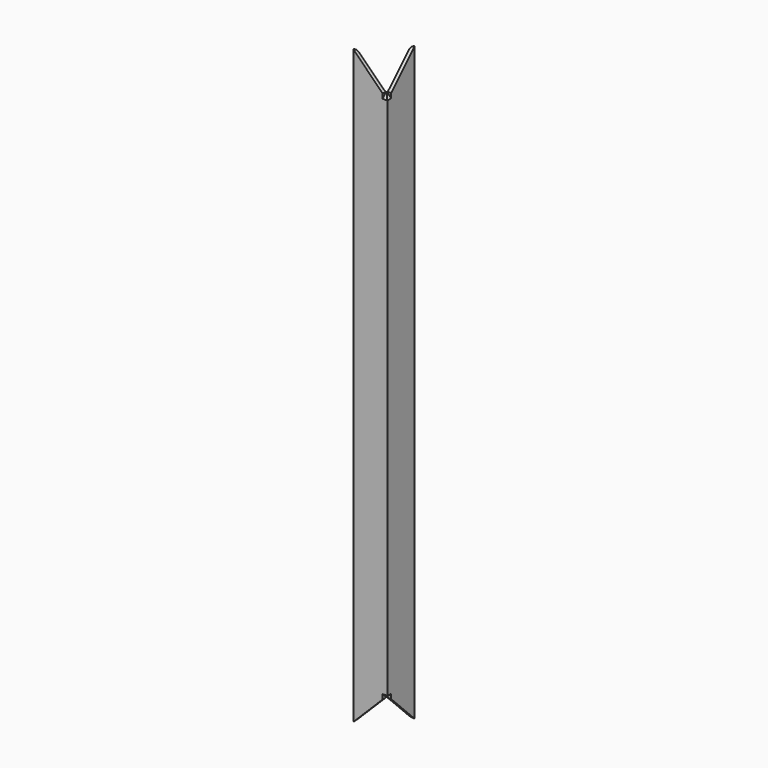
from build123d import *

# Parameters (mm, degrees)
F1_DEPTH = 870
F6_DEPTH = 7
F7_DEPTH = 7


with BuildPart() as f1:
    # F0 (on Top) → F1 (new body)
    with BuildSketch(Plane.XY):
        with BuildLine():
            Line((-50, 0), (0, 0))
            Line((0, 0), (0, 50))
            ThreePointArc((0, 50), (-3.535534, 48.535534), (-5, 45))
            Line((-5, 45), (-5, 10))
            ThreePointArc((-5, 10), (-6.464466, 6.464466), (-10, 5))
            Line((-10, 5), (-45, 5))
            ThreePointArc((-45, 5), (-48.535534, 3.535534), (-50, 0))
        make_face()
    extrude(amount=F1_DEPTH)

    # F3 (on face) + F4 (on face) → F6 (cut)
    with BuildSketch(Plane.YZ):
        Polygon((0, 820), (50, 870), (0, 870), align=None)
    with BuildSketch(Plane.YZ):
        Polygon((0, 0), (50, 0), (0, 50), align=None)
    extrude(amount=-F6_DEPTH, mode=Mode.SUBTRACT)

    # F2 (on face) → F7 (cut)
    with BuildSketch(Plane.XZ):
        Polygon((0, 870), (-50, 870), (0, 820), align=None)
        Polygon((0, 50), (-50, 0), (0, 0), align=None)
    extrude(amount=-F7_DEPTH, mode=Mode.SUBTRACT)


solid = f1.part
